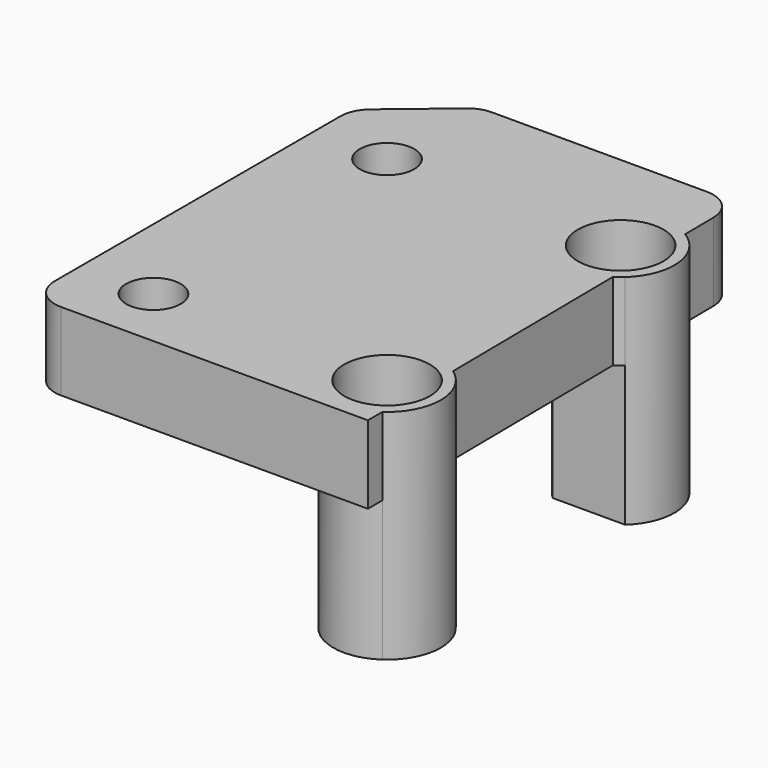
from build123d import *

# Parameters (mm, degrees)
F0_R     = 1.75
F1_DEPTH = 14
F2_DEPTH = 5
F3_R     = 2
F4_R     = 2.75
F5_DEPTH = 3
F6_R     = 1.75
F7_DEPTH = 2.5


with BuildPart() as f1:
    # F0 (on Top) → F1 (new body)
    with BuildSketch(Plane.XY):
        with BuildLine():
            Line((21.7761647301, 1.3240322888), (26.4237447456, 1.3240322888))
            ThreePointArc((26.4237447456, 1.3240322888), (27.5325816725, 4.2198246066), (25.8684580679, 6.8362773785))
            ThreePointArc((25.8684580679, 6.8362773785), (21.3298830229, 5.9305348281), (21.7761647301, 1.3240322888))
        make_face()
        with Locations((24.0999547378, 3.8740322888)):
            Circle(F0_R, mode=Mode.SUBTRACT)
    extrude(amount=-F1_DEPTH)



with BuildPart() as f1b:
    # F0 (on Top) → F1, piece 2 (new body)
    with BuildSketch(Plane.XY):
        with BuildLine():
            Line((26.0698554789, -17.7082796768), (26.0698554789, -12.0436557456))
            ThreePointArc((26.0698554789, -12.0436557456), (25.4051734809, -11.6823954116), (24.6777322905, -11.4746924945))
            Line((24.6777322905, -11.4746924945), (24.6851897334, -11.430791835))
            Line((24.6851897334, -11.430791835), (23.9175727699, -11.430791835))
            ThreePointArc((23.9175727699, -11.430791835), (20.8364414099, -15.9948871713), (26.0698554789, -17.7082796768))
        make_face()
        with Locations((24.0999547378, -14.8759677112)):
            Circle(F0_R, mode=Mode.SUBTRACT)
        with BuildLine():
            ThreePointArc((26.0698554789, -17.7082796768), (27.5499547378, -14.8759677112), (26.0698554789, -12.0436557456))
            Line((26.0698554789, -12.0436557456), (26.0698554789, -17.7082796768))
        make_face()
    extrude(amount=-F1_DEPTH)


with BuildPart() as f1_1:
    add(f1.part)

    add(f1b.part)  # F2 merges F1b
    # F0 (on Top) → F2 (join)
    with BuildSketch(Plane.XY):
        with BuildLine():
            Line((26.0698554789, -12.0436557456), (25.9312466019, 0.9501871991))
            ThreePointArc((25.9312466019, 0.9501871991), (26.1858877133, 1.1260541917), (26.4237447456, 1.3240322888))
            Line((26.4237447456, 1.3240322888), (21.7761647301, 1.3240322888))
            ThreePointArc((21.7761647301, 1.3240322888), (21.3298830229, 5.9305348281), (25.8684580679, 6.8362773785))
            Line((25.8684580679, 6.8362773785), (25.8227194135, 11.1240322888))
            Line((25.8227194135, 11.1240322888), (9.3227194135, 11.1240322888))
            Line((9.3227194135, 11.1240322888), (4.3655936032, 6.9737100091))
            Line((4.3655936032, 6.9737100091), (4.3655936032, -18.8759677112))
            Line((4.3655936032, -18.8759677112), (9.8819473522, -18.8759677112))
            Line((9.8819473522, -18.8759677112), (9.9476614486, -18.8759677112))
            Line((9.9476614486, -18.8759677112), (23.5200859606, -18.8759677112))
            Line((23.5200859606, -18.8759677112), (26.0698554789, -18.8759677112))
            Line((26.0698554789, -18.8759677112), (26.0698554789, -17.7082796768))
            ThreePointArc((26.0698554789, -17.7082796768), (20.8364414099, -15.9948871713), (23.9175727699, -11.430791835))
            Line((23.9175727699, -11.430791835), (24.6851897334, -11.430791835))
            Line((24.6851897334, -11.430791835), (24.6777322905, -11.4746924945))
            ThreePointArc((24.6777322905, -11.4746924945), (25.4051734809, -11.6823954116), (26.0698554789, -12.0436557456))
        make_face()
        with Locations((9.0999547378, -14.8759677112)):
            Circle(F0_R, mode=Mode.SUBTRACT)
        with Locations((9.0999547378, 3.8740322888)):
            Circle(F0_R, mode=Mode.SUBTRACT)
        with BuildLine():
            Line((26.0698554789, -12.0436557456), (25.9312466019, 0.9501871991))
            ThreePointArc((25.9312466019, 0.9501871991), (26.1858877133, 1.1260541917), (26.4237447456, 1.3240322888))
            Line((26.4237447456, 1.3240322888), (21.7761647301, 1.3240322888))
            ThreePointArc((21.7761647301, 1.3240322888), (21.3298830229, 5.9305348281), (25.8684580679, 6.8362773785))
            Line((25.8684580679, 6.8362773785), (25.8227194135, 11.1240322888))
            Line((25.8227194135, 11.1240322888), (9.3227194135, 11.1240322888))
            Line((9.3227194135, 11.1240322888), (4.3655936032, 6.9737100091))
            Line((4.3655936032, 6.9737100091), (4.3655936032, -18.8759677112))
            Line((4.3655936032, -18.8759677112), (9.8819473522, -18.8759677112))
            Line((9.8819473522, -18.8759677112), (9.9476614486, -18.8759677112))
            Line((9.9476614486, -18.8759677112), (23.5200859606, -18.8759677112))
            Line((23.5200859606, -18.8759677112), (26.0698554789, -18.8759677112))
            Line((26.0698554789, -18.8759677112), (26.0698554789, -17.7082796768))
            ThreePointArc((26.0698554789, -17.7082796768), (20.8364414099, -15.9948871713), (23.9175727699, -11.430791835))
            Line((23.9175727699, -11.430791835), (24.6851897334, -11.430791835))
            Line((24.6851897334, -11.430791835), (24.6777322905, -11.4746924945))
            ThreePointArc((24.6777322905, -11.4746924945), (25.4051734809, -11.6823954116), (26.0698554789, -12.0436557456))
        make_face()
        with Locations((9.0999547378, -14.8759677112)):
            Circle(F0_R, mode=Mode.SUBTRACT)
        with Locations((9.0999547378, 3.8740322888)):
            Circle(F0_R, mode=Mode.SUBTRACT)
    extrude(amount=-F2_DEPTH)

    # F3
    f3_edges = [f1_1.edges().sort_by_distance(p)[0] for p in [
        (9.322719, 11.124032, -2.5),
        (4.365594, 6.97371, -2.5),
        (4.365594, -18.875968, -2.5),
        (25.822719, 11.124032, -2.5),
    ]]
    fillet(f3_edges, radius=F3_R)

    # F4 (on face) → F5 (cut)
    with BuildSketch(Plane.XY):
        with BuildLine():
            ThreePointArc((25.1289665719, 1.3240322888), (26.379519606, 2.3359536637), (26.8500410169, 3.8742895704))
            ThreePointArc((26.8500410169, 3.8742895704), (22.5617051102, 6.1537681595), (23.0711154619, 1.3240322888))
            Line((23.0711154619, 1.3240322888), (25.1289665719, 1.3240322888))
        make_face()
        with BuildLine():
            Line((25.1289665719, 1.3240322888), (23.0711154619, 1.3240322888))
            ThreePointArc((23.0711154619, 1.3240322888), (24.1000410169, 1.1242895704), (25.1289665719, 1.3240322888))
        make_face()
        with Locations((24.1000410169, -14.8761207238)):
            Circle(F4_R)
    extrude(amount=-F5_DEPTH, mode=Mode.SUBTRACT)

    # F6 (on face) → F7 (cut)
    with BuildSketch(Plane(origin=(0, 0, -5), x_dir=(1, 0, 0), z_dir=(0, 0, -1))):
        Polygon((10.6876679781, -1.1240322888), (7.5122414976, -1.1240322888), (5.9245282573, -3.8740322888), (7.5122414976, -6.6240322888), (10.6876679781, -6.6240322888), (12.2753812184, -3.8740322888), align=None)
        with Locations((9.0999547378, -3.8740322888)):
            Circle(F6_R, mode=Mode.SUBTRACT)
        Polygon((10.6876679781, 17.6259677112), (7.5122414976, 17.6259677112), (5.9245282573, 14.8759677112), (7.5122414976, 12.1259677112), (10.6876679781, 12.1259677112), (12.2753812184, 14.8759677112), align=None)
        with Locations((9.0999547378, 14.8759677112)):
            Circle(F6_R, mode=Mode.SUBTRACT)
    extrude(amount=-F7_DEPTH, mode=Mode.SUBTRACT)


solid = f1_1.part
